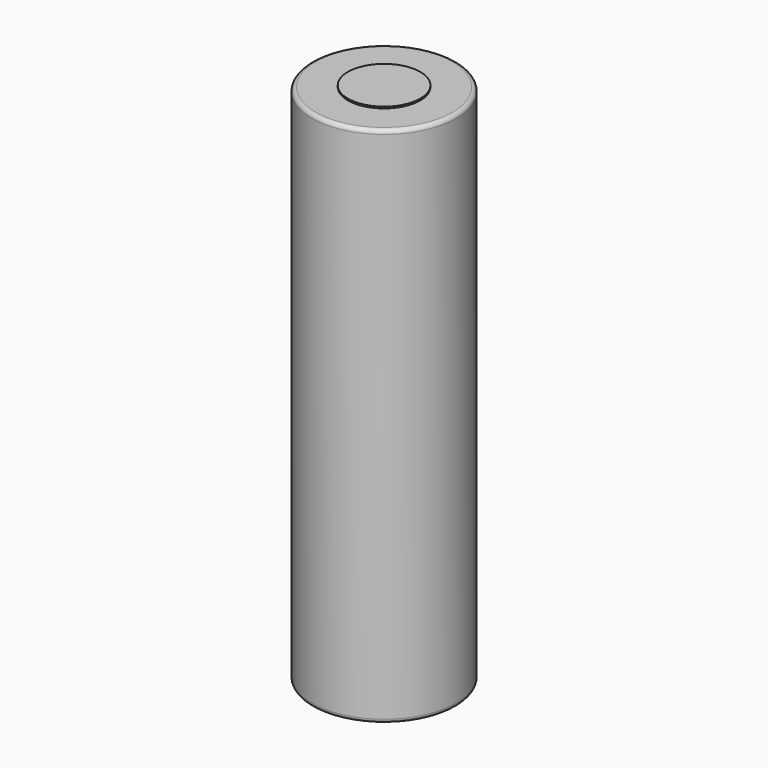
from build123d import *

# Parameters (mm, degrees)
F0_R     = 9
F1_DEPTH = 65
F2_R     = 4.5
F3_DEPTH = 0.2
F4_R     = 8
F5_DEPTH = 0.2
F6_R     = 8
F7_DEPTH = 0.2
F8_R     = 0.5


with BuildPart() as f1:
    # F0 (on Top) → F1 (new body)
    with BuildSketch(Plane.XY):
        Circle(F0_R)
    extrude(amount=F1_DEPTH)

    # F4 (on face) → F5 (cut)
    with BuildSketch(Plane(origin=(0, 0, 0), x_dir=(1, 0, 0), z_dir=(0, 0, -1))):
        Circle(F4_R)
    extrude(amount=-F5_DEPTH, mode=Mode.SUBTRACT)

    # F8
    f8_edges = [f1.edges().sort_by_distance(p)[0] for p in [
        (-9, 0, 65),
        (-9, 0, 0),
    ]]
    fillet(f8_edges, radius=F8_R)


with BuildPart() as f3:
    # F2 (on face) → F3 (new body)
    with BuildSketch(Plane.XY.offset(65)):
        Circle(F2_R)
    extrude(amount=F3_DEPTH)


with BuildPart() as f7:
    # F6 (on face) → F7 (new body)
    with BuildSketch(Plane(origin=(0, 0, 0.2), x_dir=(1, 0, 0), z_dir=(0, 0, -1))):
        Circle(F6_R)
    extrude(amount=F7_DEPTH)


solid = Compound([f1.part, f3.part, f7.part])
